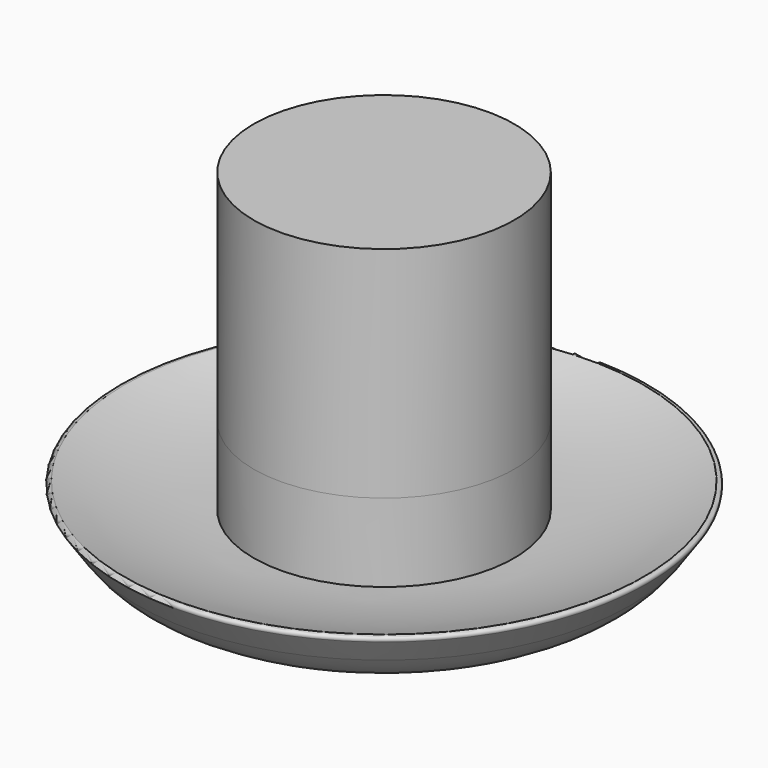
from build123d import *

# Parameters (mm, degrees)
F0_W = 13.891418
F0_H = 23.382155


with BuildPart() as f1:
    # F0 (on Front) → F1 (revolve)
    with BuildSketch(Plane.XZ):
        with BuildLine():
            Line((-18.711916, 9.499555), (-12.719044, 9.499555))
            ThreePointArc((-12.719044, 9.499555), (-10.492784, 11.912897), (-7.817674, 13.816642))
            Line((-7.817674, 13.816642), (-11.129843, 13.816642))
            Line((-11.129843, 13.816642), (-13.891418, 13.816642))
            Line((-13.891418, 13.816642), (-13.891418, 13.892566))
            ThreePointArc((-13.891418, 13.892566), (-20.89116, 14.773631), (-27.698579, 16.626118))
            ThreePointArc((-27.698579, 16.626118), (-28.078552, 16.512033), (-28.088026, 16.115416))
            Line((-28.088026, 16.115416), (-26.258327, 13.462247))
            ThreePointArc((-26.258327, 13.462247), (-22.973701, 10.550468), (-18.711916, 9.499555))
        make_face()
        with Locations((-6.945709, 33.924073)):
            Rectangle(F0_W, F0_H)
    revolve(axis=Axis((0, 0, 30.745076), (0, 0, 1)))


with BuildPart() as f3:
    # F0 (on Front) → F3 (revolve)
    with BuildSketch(Plane.XZ):
        with BuildLine():
            Line((-11.129843, 13.816642), (-7.817674, 13.816642))
            ThreePointArc((-7.817674, 13.816642), (-4.042056, 15.351788), (0, 15.875))
            Line((0, 15.875), (0, 22.232996))
            Line((0, 22.232996), (-13.891418, 22.232996))
            Line((-13.891418, 22.232996), (-13.891418, 13.892566))
            ThreePointArc((-13.891418, 13.892566), (-12.511153, 13.835626), (-11.129843, 13.816642))
        make_face()
    revolve(axis=Axis((0, 0, 36.38116), (0, 0, 1)))


solid = Compound([f1.part, f3.part])
